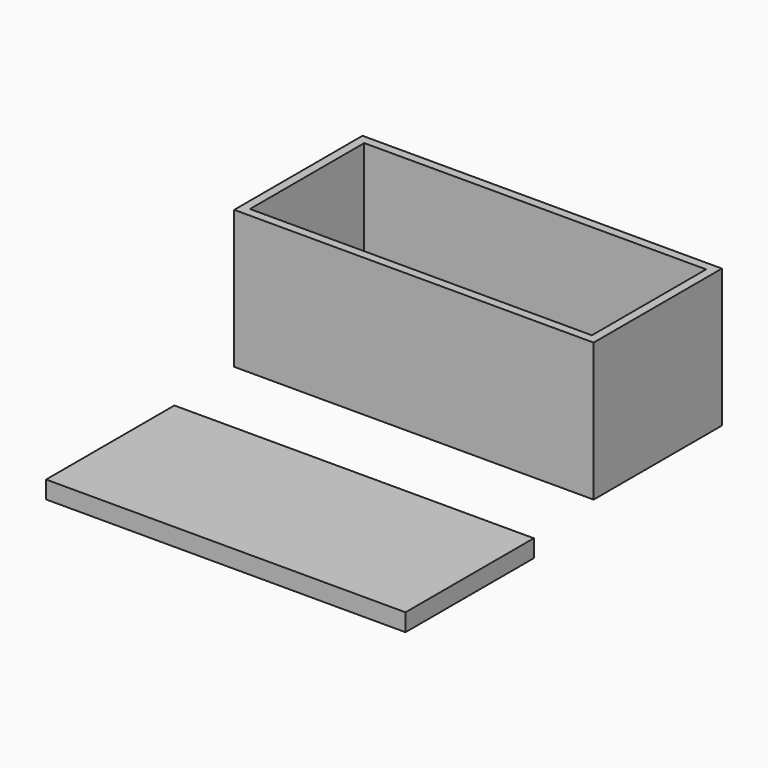
from build123d import *

# Parameters (mm, degrees)
F0_W     = 65
F0_H     = 29
F1_DEPTH = 25
F2_R     = 14.1
F3_DEPTH = 3.5
F4_W     = 61.825
F4_H     = 25.825
F5_DEPTH = 20.5
F6_W     = 65
F6_H     = 29
F7_DEPTH = 3.175
F8_W     = 20
F8_H     = 25.825
F9_DEPTH = 1


with BuildPart() as f1:
    # F0 (on Top) → F1 (new body)
    with BuildSketch(Plane.XY):
        Rectangle(F0_W, F0_H)
    extrude(amount=F1_DEPTH)

    # F2 (on Top) → F3 (cut)
    with BuildSketch(Plane.XY):
        Circle(F2_R)
    extrude(amount=F3_DEPTH, mode=Mode.SUBTRACT)

    # F4 (on face) → F5 (cut)
    with BuildSketch(Plane.XY.offset(25)):
        Rectangle(F4_W, F4_H)
    extrude(amount=-F5_DEPTH, mode=Mode.SUBTRACT)

    # F8 (on face) → F9 (cut)
    with BuildSketch(Plane.XY.offset(4.5)):
        Rectangle(F8_W, F8_H)
    extrude(amount=-F9_DEPTH, mode=Mode.SUBTRACT)


with BuildPart() as f7:
    # F6 (on Top) → F7 (new body)
    with BuildSketch(Plane.XY):
        with Locations((4.592014, -48.259111)):
            Rectangle(F6_W, F6_H)
    extrude(amount=F7_DEPTH)


solid = Compound([f1.part, f7.part])
